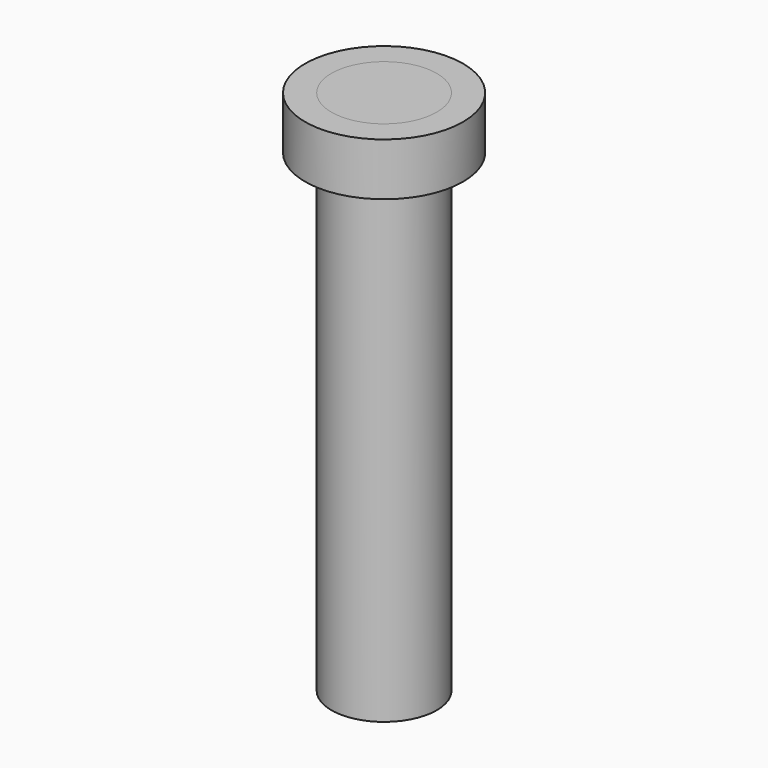
from build123d import *

# Parameters (mm, degrees)
F0_R     = 25.4
F1_DEPTH = 254
F2_R     = 38.1
F2_R_2   = 25.4
F3_DEPTH = 25.4


with BuildPart() as f1:
    # F0 (on Top) → F1 (new body)
    with BuildSketch(Plane.XY):
        Circle(F0_R)
    extrude(amount=F1_DEPTH)


with BuildPart() as f3:
    # F2 (on face) → F3 (new body)
    with BuildSketch(Plane.XY.offset(254)):
        Circle(F2_R)
        Circle(F2_R_2, mode=Mode.SUBTRACT)
    extrude(amount=-F3_DEPTH)


solid = Compound([f1.part, f3.part])
